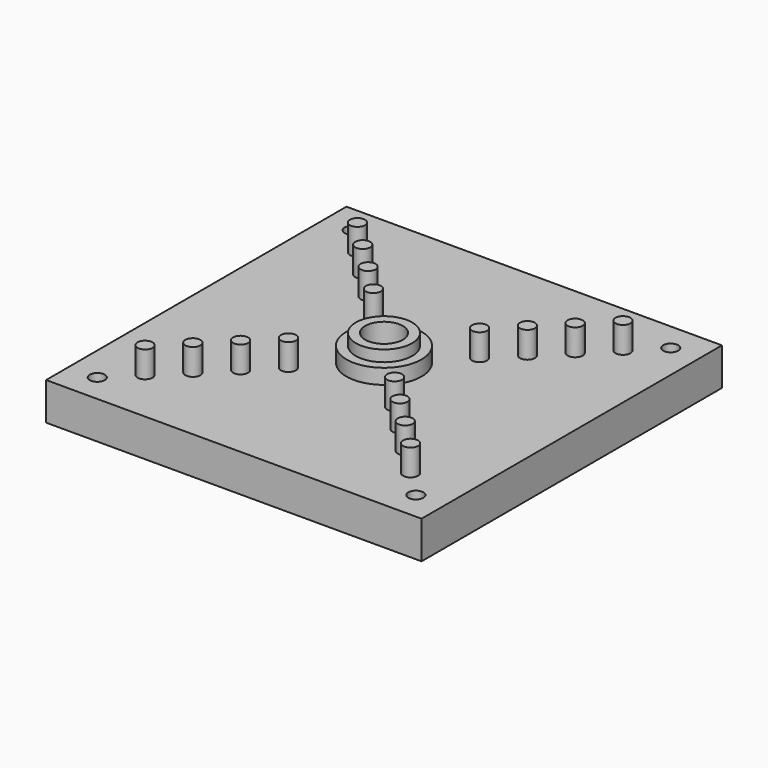
from build123d import *

# Parameters (mm, degrees)
F0_W     = 100
F0_H     = 100
F0_R     = 2
F1_DEPTH = 10
F2_R     = 2
F3_DEPTH = 7
F4_R     = 10
F4_R_2   = 7.5
F5_DEPTH = 4
F4_R_3   = 5
F6_DEPTH = 7
F7_DEPTH = 25


with BuildPart() as f1:
    # F0 (on Top) → F1 (new body)
    with BuildSketch(Plane.XY):
        Rectangle(F0_W, F0_H)
        with Locations((-42.426407, -42.426407)):
            Circle(F0_R, mode=Mode.SUBTRACT)
        with Locations((42.426407, -42.426407)):
            Circle(F0_R, mode=Mode.SUBTRACT)
        with Locations((-42.426407, 42.426407)):
            Circle(F0_R, mode=Mode.SUBTRACT)
        with Locations((42.426407, 42.426407)):
            Circle(F0_R, mode=Mode.SUBTRACT)
    extrude(amount=F1_DEPTH)

    # F2 (on face) → F3 (join)
    with BuildSketch(Plane.XY.offset(10)):
        with Locations((14.142136, -14.142136)):
            Circle(F2_R)
        with Locations((21.213203, -21.213203)):
            Circle(F2_R)
        with Locations((28.284271, -28.284271)):
            Circle(F2_R)
        with Locations((35.355339, -35.355339)):
            Circle(F2_R)
        with Locations((14.142136, 14.142136)):
            Circle(F2_R)
        with Locations((21.213203, 21.213203)):
            Circle(F2_R)
        with Locations((28.284271, 28.284271)):
            Circle(F2_R)
        with Locations((35.355339, 35.355339)):
            Circle(F2_R)
        with Locations((-14.142136, 14.142136)):
            Circle(F2_R)
        with Locations((-21.213203, 21.213203)):
            Circle(F2_R)
        with Locations((-28.284271, 28.284271)):
            Circle(F2_R)
        with Locations((-35.355339, 35.355339)):
            Circle(F2_R)
        with Locations((-14.142136, -14.142136)):
            Circle(F2_R)
        with Locations((-21.213203, -21.213203)):
            Circle(F2_R)
        with Locations((-28.284271, -28.284271)):
            Circle(F2_R)
        with Locations((-35.355339, -35.355339)):
            Circle(F2_R)
    extrude(amount=F3_DEPTH)

    # F4 (on face) → F5 (join)
    with BuildSketch(Plane.XY.offset(10)):
        Circle(F4_R)
        Circle(F4_R_2, mode=Mode.SUBTRACT)
    extrude(amount=F5_DEPTH)

    # F4 (on face) → F6 (join)
    with BuildSketch(Plane.XY.offset(10)):
        Circle(F4_R_2)
        Circle(F4_R_3, mode=Mode.SUBTRACT)
    extrude(amount=F6_DEPTH)

    # F4 (on face) → F7 (cut)
    with BuildSketch(Plane.XY.offset(10)):
        Circle(F4_R_3)
    extrude(amount=-F7_DEPTH, mode=Mode.SUBTRACT)


solid = f1.part
